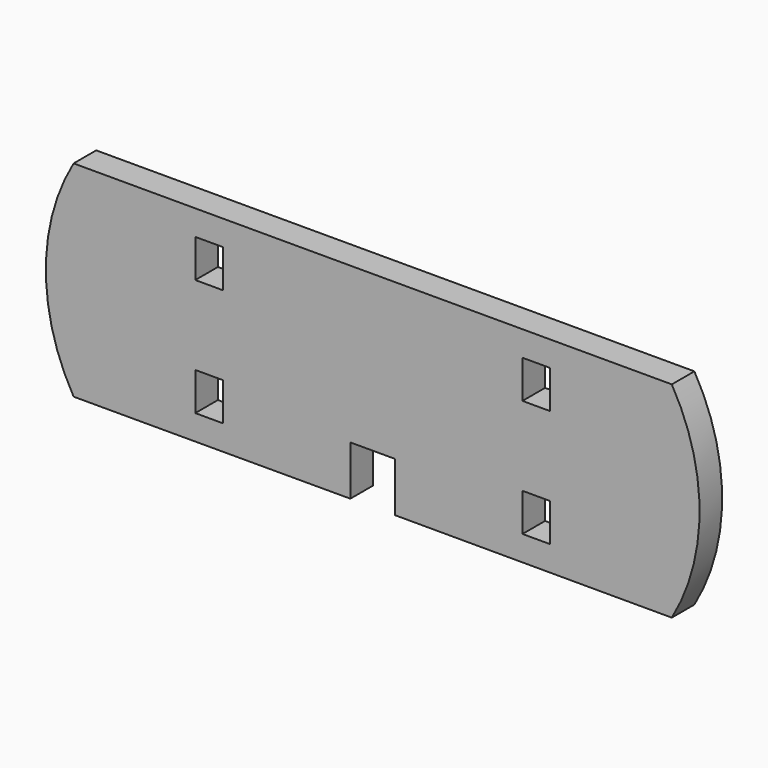
from build123d import *

# Parameters (mm, degrees)
F0_W     = 4.2672
F0_H     = 5.842
F0_W_2   = 7.894506
F0_H_2   = 31.5722
F0_W_3   = 7.912528
F1_DEPTH = 4.3434


with BuildPart() as f1:
    # F0 (on Front) → F1 (new body)
    with BuildSketch(Plane.XZ):
        Polygon((38.080222, -15.7861), (38.080222, 15.7861), (-38.080222, 15.7861), (-38.080222, -15.7861), (-3.443861, -15.758646), (-3.443861, -8.138646), (3.414139, -8.138646), (3.414139, -15.758646), align=None)
        with Locations((-25.151622, -9.0043)):
            Rectangle(F0_W, F0_H, mode=Mode.SUBTRACT)
        with Locations((25.151622, -9.0043)):
            Rectangle(F0_W, F0_H, mode=Mode.SUBTRACT)
        with Locations((-25.151622, 9.0043)):
            Rectangle(F0_W, F0_H, mode=Mode.SUBTRACT)
        with Locations((25.151622, 9.0043)):
            Rectangle(F0_W, F0_H, mode=Mode.SUBTRACT)
        with Locations((42.027475, 0)):
            Rectangle(F0_W_2, F0_H_2)
        with Locations((-42.036486, 0)):
            Rectangle(F0_W_3, F0_H_2)
        with BuildLine():
            ThreePointArc((45.974728, -15.7861), (50.240287, 0), (45.974728, 15.7861))
            Line((45.974728, 15.7861), (45.974728, -15.7861))
        make_face()
        with BuildLine():
            Line((-45.99275, -15.7861), (-45.99275, 15.7861))
            ThreePointArc((-45.99275, 15.7861), (-50.259919, 0), (-45.99275, -15.7861))
        make_face()
    extrude(amount=F1_DEPTH)


solid = f1.part
